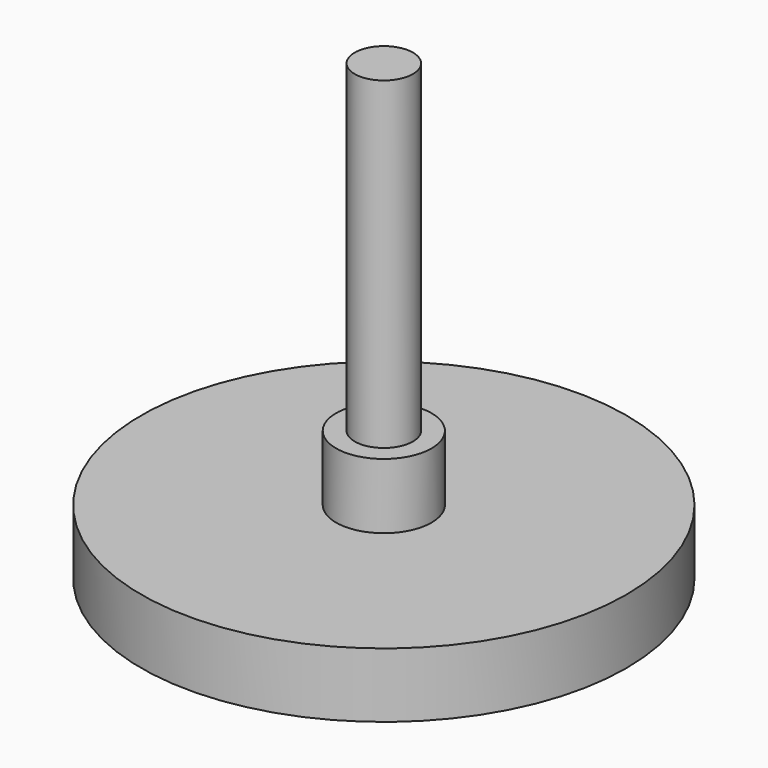
from build123d import *

# Parameters (mm, degrees)
F0_R     = 4.5
F1_DEPTH = 50
F2_R     = 7.375
F3_DEPTH = 10.1
F4_R     = 37.5
F5_DEPTH = 10


with BuildPart() as f1:
    # F0 (on Top) → F1 (new body)
    with BuildSketch(Plane.XY):
        Circle(F0_R)
    extrude(amount=F1_DEPTH)

    # F2 (on Top) → F3 (join)
    with BuildSketch(Plane.XY):
        Circle(F2_R)
    extrude(amount=-F3_DEPTH)

    # F4 (on face) → F5 (join)
    with BuildSketch(Plane(origin=(0, 0, -10.1), x_dir=(1, 0, 0), z_dir=(0, 0, -1))):
        Circle(F4_R)
    extrude(amount=F5_DEPTH)


solid = f1.part
